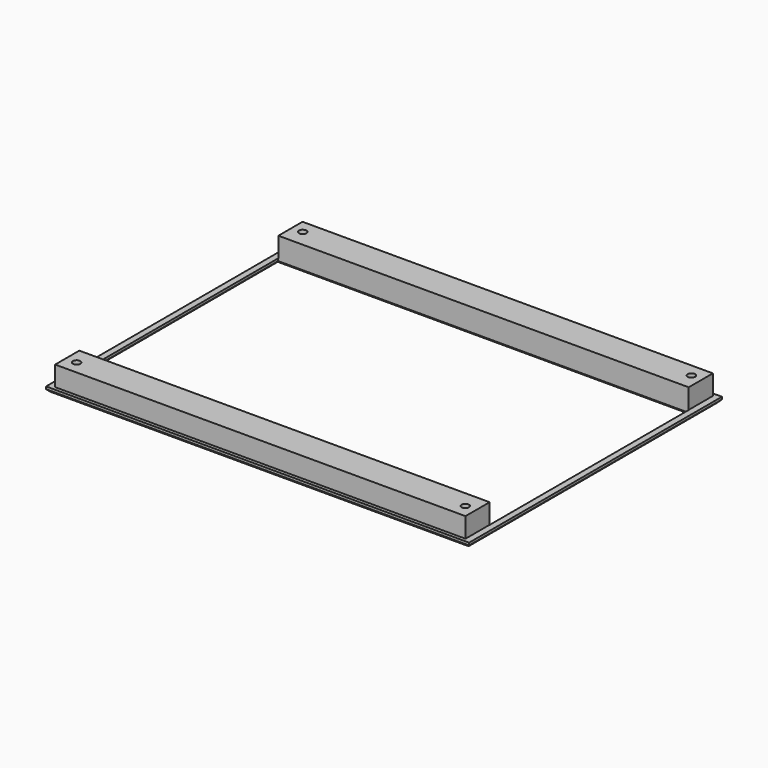
from build123d import *

# Parameters (mm, degrees)
SKETCH001_W   = 180
SKETCH001_H   = 136
SKETCH001_W_2 = 164.9
SKETCH001_H_2 = 124.27
PAD001_DEPTH  = 10
SKETCH_W      = 170
SKETCH_H      = 127
SKETCH_W_2    = 165
SKETCH_H_2    = 100
PAD_DEPTH     = 10
SKETCH002_R   = 1.5
POCKET_DEPTH  = 7
CHAMFER_SIZE  = 1


with BuildPart() as body001:
    # Sketch001 → Pad001 (new body)
    with BuildSketch(Plane.XY):
        Rectangle(SKETCH001_W, SKETCH001_H)
        Rectangle(SKETCH001_W_2, SKETCH001_H_2, mode=Mode.SUBTRACT)
    extrude(amount=PAD001_DEPTH)


with BuildPart() as body001_1:
    # Body001 placement: moved
    add(body001.part.moved(Location((0, 0, 2))))


with BuildPart() as bezel:
    # Sketch → Pad (new body)
    with BuildSketch(Plane.XY):
        Rectangle(SKETCH_W, SKETCH_H)
        Rectangle(SKETCH_W_2, SKETCH_H_2, mode=Mode.SUBTRACT)
    extrude(amount=PAD_DEPTH)

    # Boolean: cut Body001
    add(body001_1.part, mode=Mode.SUBTRACT)

    # Sketch002 (on Face18 of Boolean) → Pocket (cut)
    with BuildSketch(Plane.XY.offset(10)):
        with Locations((-78.09, 56.795)):
            Circle(SKETCH002_R)
        with Locations((78.09, 56.795)):
            Circle(SKETCH002_R)
        with Locations((78.09, -56.795)):
            Circle(SKETCH002_R)
        with Locations((-78.09, -56.795)):
            Circle(SKETCH002_R)
    extrude(amount=-POCKET_DEPTH, mode=Mode.SUBTRACT)

    # Chamfer
    chamfer_edges = [bezel.edges().sort_by_distance(p)[0] for p in [
        (82.5, 0, 0),
        (0, -50, 0),
        (0, -63.5, 0),
        (85, 0, 0),
        (0, 63.5, 0),
        (-85, 0, 0),
        (0, 50, 0),
        (-82.5, 0, 0),
    ]]
    chamfer(chamfer_edges, length=CHAMFER_SIZE)


solid = bezel.part
